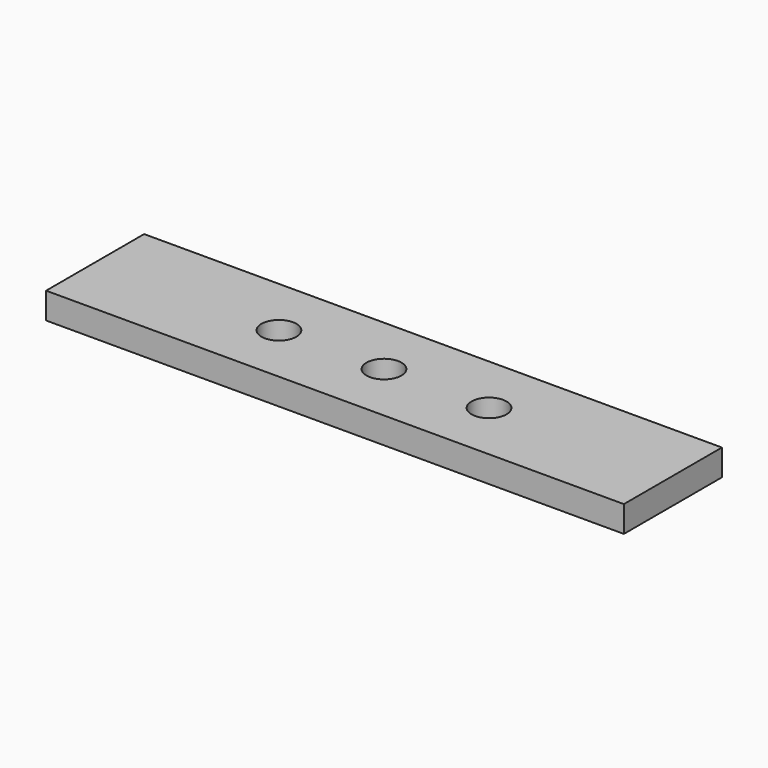
from build123d import *

# Parameters (mm, degrees)
F0_W     = 419.1
F0_H     = 88.9
F0_R     = 12.7
F1_DEPTH = 19.05


with BuildPart() as f1:
    # F0 (on Top) → F1 (new body)
    with BuildSketch(Plane.XY):
        with Locations((287.089335, 149.860211)):
            Rectangle(F0_W, F0_H)
        with Locations((210.889335, 149.860211)):
            Circle(F0_R, mode=Mode.SUBTRACT)
        with Locations((287.089335, 149.860211)):
            Circle(F0_R, mode=Mode.SUBTRACT)
        with Locations((363.289335, 149.860211)):
            Circle(F0_R, mode=Mode.SUBTRACT)
    extrude(amount=F1_DEPTH)


solid = f1.part
